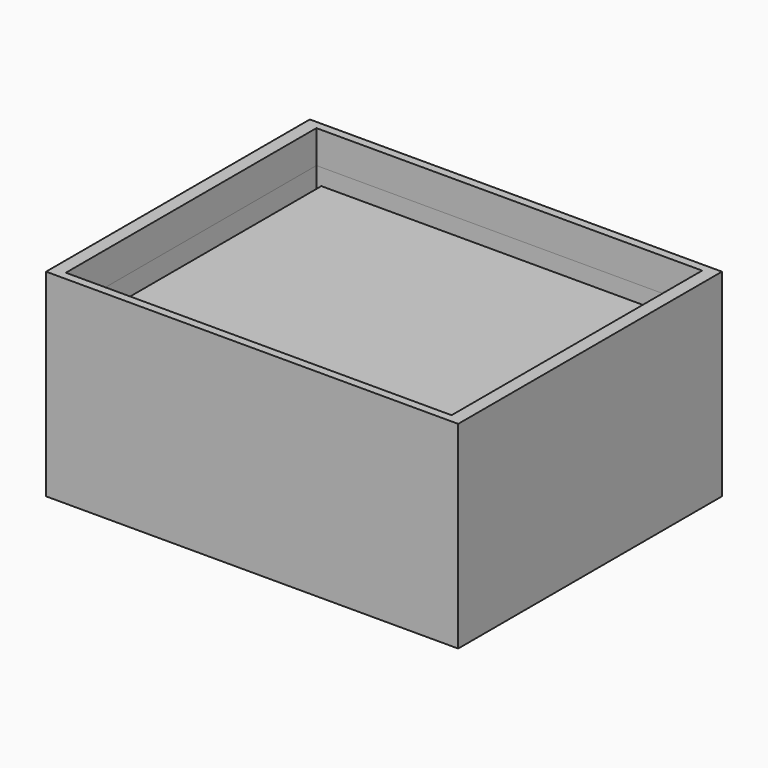
from build123d import *

# Parameters (mm, degrees)
F0_W     = 31.75
F0_H     = 25.4
F1_DEPTH = 12.7
F2_W     = 29.718
F2_H     = 24.13
F3_DEPTH = 2.54
F4_W     = 29.718
F4_H     = 24.13
F4_W_2   = 25.908
F4_H_2   = 20.32
F5_DEPTH = 10.16
F5_TAPER = 1
F6_W     = 31.75
F6_H     = 25.4
F7_DEPTH = 2.54


with BuildPart() as f1:
    # F0 (on Top) → F1 (new body)
    with BuildSketch(Plane.XY):
        with Locations((-15.875, -12.7)):
            Rectangle(F0_W, F0_H)
    extrude(amount=F1_DEPTH)

    # F2 (on face) → F3 (cut)
    with BuildSketch(Plane.XY.offset(12.7)):
        with Locations((-15.875, -12.7)):
            Rectangle(F2_W, F2_H)
    extrude(amount=-F3_DEPTH, mode=Mode.SUBTRACT)

    # F4 (on face) → F5 (cut)
    with BuildSketch(Plane.XY.offset(10.16)):
        with Locations((-15.875, -12.7)):
            Rectangle(F4_W, F4_H)
        with Locations((-15.875, -12.7)):
            Rectangle(F4_W_2, F4_H_2, mode=Mode.SUBTRACT)
    extrude(amount=-F5_DEPTH, taper=F5_TAPER, mode=Mode.SUBTRACT)

    # F6 (on face) → F7 (join)
    with BuildSketch(Plane(origin=(0, 0, 0), x_dir=(1, 0, 0), z_dir=(0, 0, -1))):
        with Locations((-15.875, 12.7)):
            Rectangle(F6_W, F6_H)
    extrude(amount=F7_DEPTH)


solid = f1.part
